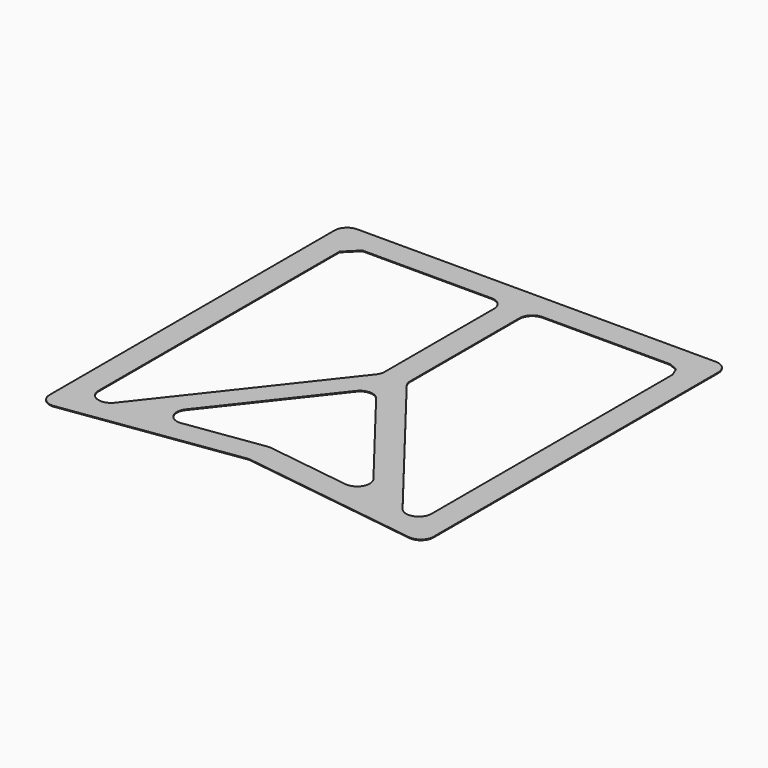
from build123d import *

# Parameters (mm, degrees)
F1_R     = 0.5
F2_DEPTH = 0.3
F4_DEPTH = 0.3


with BuildPart() as f2:
    # F1 (on Top) → F2 (new body)
    with BuildSketch(Plane.XY):
        with Locations((118.5, 40)):
            Circle(F1_R)
        with Locations((190, 170)):
            Circle(F1_R)
        with Locations((49, 170)):
            Circle(F1_R)
    extrude(amount=F2_DEPTH)


with BuildPart() as f4:
    # F3 (on Top) → F4 (new body)
    with BuildSketch(Plane.XY):
        with BuildLine():
            Line((195, 30), (195, 170))
            ThreePointArc((195, 170), (193.535534, 173.535534), (190, 175))
            Line((190, 175), (49, 175))
            ThreePointArc((49, 175), (45.464466, 173.535534), (44, 170))
            Line((44, 170), (44, 30))
            ThreePointArc((44, 30), (45.725894, 26.221081), (49.712091, 25.050967))
            Line((49.712091, 25.050967), (118.5, 34.948508))
            Line((118.5, 34.948508), (189.307634, 25.048169))
            ThreePointArc((189.307634, 25.048169), (193.281628, 26.227611), (195, 30))
        make_face()
        with BuildLine():
            Line((151.986494, 40.366549), (119.192366, 44.951831))
            ThreePointArc((119.192366, 44.951831), (118.490039, 44.99999), (117.787909, 44.949033))
            Line((117.787909, 44.949033), (87.333612, 40.56712))
            ThreePointArc((87.333612, 40.56712), (82.293013, 43.01335), (82.687579, 48.602267))
            Line((82.687579, 48.602267), (115.843081, 90.866353))
            ThreePointArc((115.843081, 90.866353), (119.791993, 92.780216), (123.729373, 90.842742))
            Line((123.729373, 90.842742), (156.63121, 48.380883))
            ThreePointArc((156.63121, 48.380883), (157.004858, 42.811242), (151.986494, 40.366549))
        make_face(mode=Mode.SUBTRACT)
        with BuildLine():
            Line((54, 160), (59, 165))
            Line((59, 165), (109.801369, 165))
            ThreePointArc((109.801369, 165), (113.336903, 163.535534), (114.801369, 160))
            Line((114.801369, 160), (114.801369, 106.299513))
            ThreePointArc((114.801369, 106.299513), (114.527346, 104.666986), (113.735311, 103.213399))
            Line((113.735311, 103.213399), (62.933942, 38.455718))
            ThreePointArc((62.933942, 38.455718), (57.367473, 36.815856), (54, 41.541833))
            Line((54, 41.541833), (54, 160))
        make_face(mode=Mode.SUBTRACT)
        with BuildLine():
            Line((185, 160), (185, 41.498332))
            ThreePointArc((185, 41.498332), (181.618371, 36.767489), (176.04765, 38.435829))
            Line((176.04765, 38.435829), (125.849019, 103.220271))
            ThreePointArc((125.849019, 103.220271), (125.070526, 104.664404), (124.801369, 106.282775))
            Line((124.801369, 106.282775), (124.801369, 160))
            ThreePointArc((124.801369, 160), (126.265835, 163.535534), (129.801369, 165))
            Line((129.801369, 165), (180, 165))
            Line((180, 165), (183.535534, 163.535534))
            Line((183.535534, 163.535534), (185, 160))
        make_face(mode=Mode.SUBTRACT)
    extrude(amount=F4_DEPTH)


solid = Compound([f2.part, f4.part])
